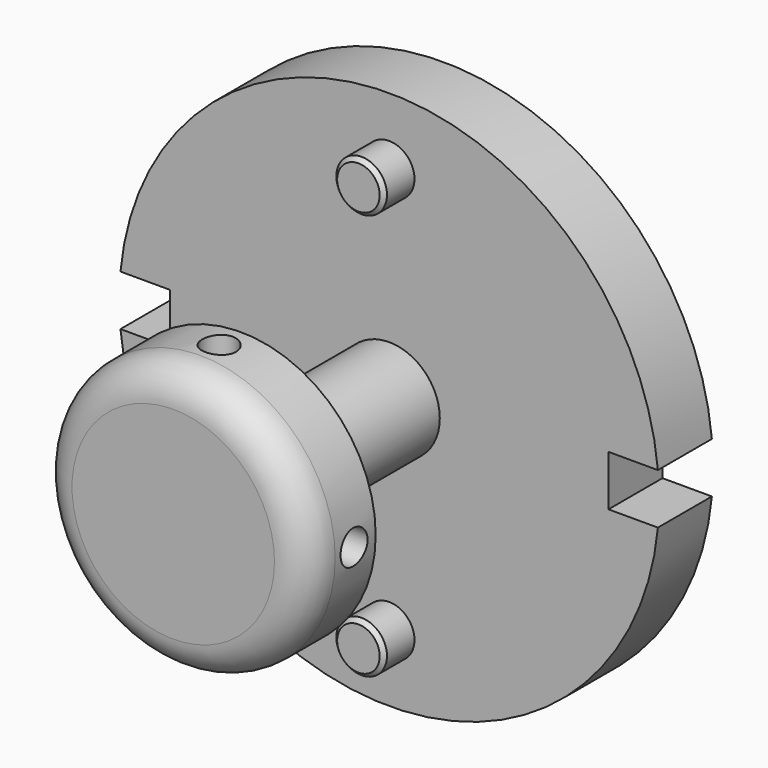
from build123d import *

# Parameters (mm, degrees)
F0_R      = 101.6
F1_DEPTH  = 19.05
F2_R      = 19.05
F3_DEPTH  = 76.2
F4_R      = 50.8
F4_R_2    = 19.05
F5_DEPTH  = 31.75
F6_R      = 9.525
F7_DEPTH  = 20.828
F8_R      = 12.7
F9_R      = 25.4
F10_DEPTH = 19.05
F11_R     = 19.05
F12_DEPTH = 25.4
F13_DEPTH = 25.4
F15_DEPTH = 27.94
F17_DEPTH = 25.4
F18_SIZE2 = 1.524
F18_SIZE  = 1.524
F20_R     = 6.35
F21_DEPTH = 16.002
F24_DEPTH = 16.002
F26_R     = 6.35
F27_DEPTH = 16.002
F29_R     = 6.35
F30_DEPTH = 16.002


with BuildPart() as f1:
    # F0 (on Front) → F1 (new body)
    with BuildSketch(Plane.XZ):
        Circle(F0_R)
    extrude(amount=F1_DEPTH)

    # F2 (on face) → F3 (join)
    with BuildSketch(Plane.XZ.offset(19.05)):
        Circle(F2_R)
        Circle(F2_R)
    extrude(amount=F3_DEPTH)

    # F4 (on face) → F5 (join)
    with BuildSketch(Plane.XZ.offset(95.25)):
        Circle(F4_R)
        Circle(F4_R_2, mode=Mode.SUBTRACT)
        Circle(F4_R_2)
    extrude(amount=F5_DEPTH)

    # F6 (on face) → F7 (join)
    with BuildSketch(Plane.XZ.offset(19.05)):
        with Locations((0, 76.2)):
            Circle(F6_R)
        with Locations((0, -76.578163)):
            Circle(F6_R)
    extrude(amount=F7_DEPTH)

    # F8
    f8_edges = [f1.edges().sort_by_distance(p)[0] for p in [
        (-50.8, -127, 0),
    ]]
    fillet(f8_edges, radius=F8_R)

    # F9 (on face) → F10 (join)
    with BuildSketch(Plane(origin=(0, 0, 0), x_dir=(-1, 0, 0), z_dir=(0, 1, 0))):
        Circle(F9_R)
    extrude(amount=F10_DEPTH)

    # F11 (on face) → F12 (join)
    with BuildSketch(Plane(origin=(0, 19.05, 0), x_dir=(-1, 0, 0), z_dir=(0, 1, 0))):
        Circle(F11_R)
    extrude(amount=F12_DEPTH)

    # F0 (on Front) → F13 (join)
    with BuildSketch(Plane.XZ):
        Circle(F0_R)
    extrude(amount=F13_DEPTH)

    # F14 (on face) → F15 (cut)
    with BuildSketch(Plane.XZ.offset(25.4)):
        Polygon((82.55, 9.525), (82.55, 0), (82.55, -9.525), (120.547909, -9.525), (120.547909, 9.525), align=None)
        Polygon((82.55, 9.525), (82.55, 0), (82.55, -9.525), (120.547909, -9.525), (120.547909, 9.525), align=None)
    extrude(amount=-F15_DEPTH, mode=Mode.SUBTRACT)

    # F16 (on face) → F17 (cut)
    with BuildSketch(Plane.XZ.offset(25.4)):
        Polygon((-82.55, -9.525), (-82.55, 0), (-82.55, 9.525), (-117.500194, 9.525), (-117.500194, -9.525), align=None)
        Polygon((-82.55, -9.525), (-82.55, 0), (-82.55, 9.525), (-117.500194, 9.525), (-117.500194, -9.525), align=None)
    extrude(amount=-F17_DEPTH, mode=Mode.SUBTRACT)

    # F18
    f18_edges = [f1.edges().sort_by_distance(p)[0] for p in [
        (-9.525, -39.878, 76.2),
        (-9.525, -39.878, -76.578163),
    ]]
    chamfer(f18_edges, length=F18_SIZE, length2=F18_SIZE2)

    # F20 (on offset) → F21 (cut)
    with BuildSketch(Plane.XY.offset(50.8)):
        with Locations((0, -105.41)):
            Circle(F20_R)
    extrude(amount=-F21_DEPTH, mode=Mode.SUBTRACT)

    # F23 (on offset) → F24 (cut)
    with BuildSketch(Plane.XY.offset(-50.8)):
        with BuildLine():
            ThreePointArc((0, -99.06), (-4.490128, -109.900128), (6.35, -105.41))
            ThreePointArc((6.35, -105.41), (4.490128, -100.919872), (0, -99.06))
        make_face()
    extrude(amount=F24_DEPTH, mode=Mode.SUBTRACT)

    # F26 (on offset) → F27 (cut)
    with BuildSketch(Plane.YZ.offset(50.8)):
        with Locations((-105.41, 0)):
            Circle(F26_R)
    extrude(amount=-F27_DEPTH, mode=Mode.SUBTRACT)

    # F29 (on offset) → F30 (cut)
    with BuildSketch(Plane.YZ.offset(-50.8)):
        with Locations((-105.41, 0)):
            Circle(F29_R)
    extrude(amount=F30_DEPTH, mode=Mode.SUBTRACT)


solid = f1.part
